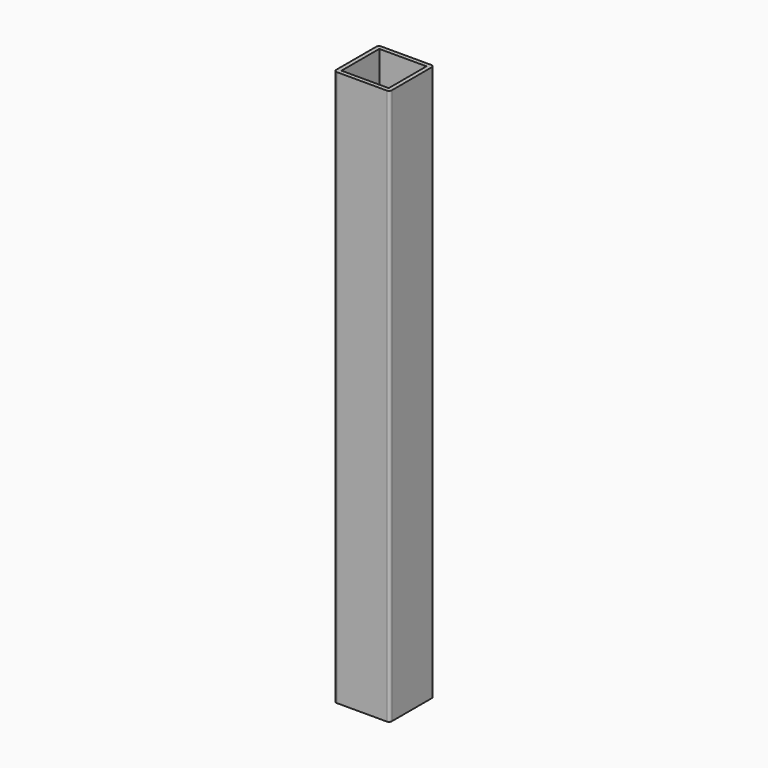
from build123d import *

# Parameters (mm, degrees)
SKETCH_W  = 34
SKETCH_H  = 34
PAD_DEPTH = 400


with BuildPart() as part:
    # Sketch → Pad (new body)
    with BuildSketch(Plane.XY):
        with BuildLine():
            Line((2, 0), (38, 0))
            ThreePointArc((38, 0), (39.414214, 0.585786), (40, 2))
            Line((40, 2), (40, 38))
            ThreePointArc((40, 38), (39.414214, 39.414214), (38, 40))
            Line((38, 40), (2, 40))
            ThreePointArc((2, 40), (0.585786, 39.414214), (0, 38))
            Line((0, 38), (0, 2))
            ThreePointArc((0, 2), (0.585786, 0.585786), (2, 0))
        make_face()
        with Locations((20, 20)):
            Rectangle(SKETCH_W, SKETCH_H, mode=Mode.SUBTRACT)
    extrude(amount=PAD_DEPTH)


solid = part.part
